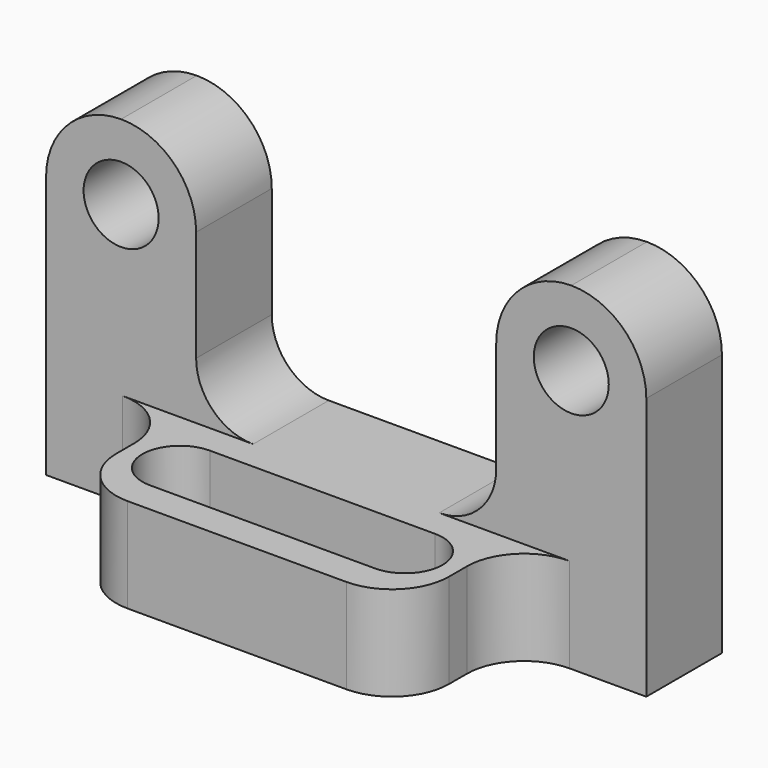
from build123d import *

# Parameters (mm, degrees)
F0_R     = 6.35
F1_DEPTH = 16.002
F2_DEPTH = 16.002
F3_R     = 9.652
F4_W     = 56.33977
F4_H     = 23.11277
F5_DEPTH = 16.002
F7_R     = 9.652
F8_DEPTH = 16.003


with BuildPart() as f1:
    # F0 (on Front) → F1 (new body)
    with BuildSketch(Plane.XZ):
        with BuildLine():
            Line((-50.8, 0), (0, 0))
            Line((0, 0), (50.8, 0))
            Line((50.8, 0), (50.8, 44.45))
            ThreePointArc((50.8, 44.45), (47.080256, 53.430256), (38.1, 57.15))
            ThreePointArc((38.1, 57.15), (29.119744, 53.430256), (25.4, 44.45))
            Line((25.4, 44.45), (25.4, 16.002))
            Line((25.4, 16.002), (0, 16.002))
            Line((0, 16.002), (-25.4, 16.002))
            Line((-25.4, 16.002), (-25.4, 44.45))
            ThreePointArc((-25.4, 44.45), (-29.119744, 53.430256), (-38.1, 57.15))
            ThreePointArc((-38.1, 57.15), (-47.080256, 53.430256), (-50.8, 44.45))
            Line((-50.8, 44.45), (-50.8, 0))
        make_face()
        with Locations((-38.1, 44.45)):
            Circle(F0_R, mode=Mode.SUBTRACT)
        with Locations((38.1, 44.45)):
            Circle(F0_R, mode=Mode.SUBTRACT)
    extrude(amount=F1_DEPTH)

    # F0 (on Front) → F2 (join)
    with BuildSketch(Plane.XZ):
        with BuildLine():
            Line((-50.8, 0), (0, 0))
            Line((0, 0), (50.8, 0))
            Line((50.8, 0), (50.8, 44.45))
            ThreePointArc((50.8, 44.45), (47.080256, 53.430256), (38.1, 57.15))
            ThreePointArc((38.1, 57.15), (29.119744, 53.430256), (25.4, 44.45))
            Line((25.4, 44.45), (25.4, 16.002))
            Line((25.4, 16.002), (0, 16.002))
            Line((0, 16.002), (-25.4, 16.002))
            Line((-25.4, 16.002), (-25.4, 44.45))
            ThreePointArc((-25.4, 44.45), (-29.119744, 53.430256), (-38.1, 57.15))
            ThreePointArc((-38.1, 57.15), (-47.080256, 53.430256), (-50.8, 44.45))
            Line((-50.8, 44.45), (-50.8, 0))
        make_face()
        with Locations((-38.1, 44.45)):
            Circle(F0_R, mode=Mode.SUBTRACT)
        with Locations((38.1, 44.45)):
            Circle(F0_R, mode=Mode.SUBTRACT)
    extrude(amount=F2_DEPTH)

    # F3
    f3_edges = [f1.edges().sort_by_distance(p)[0] for p in [
        (-25.4, -8.001, 16.002),
        (25.4, -8.001, 16.002),
    ]]
    fillet(f3_edges, radius=F3_R)

    # F4 (on Top) → F5 (join)
    with BuildSketch(Plane.XY):
        with Locations((0, -27.554179)):
            Rectangle(F4_W, F4_H)
    extrude(amount=F5_DEPTH)

    # F7
    f7_edges = [f1.edges().sort_by_distance(p)[0] for p in [
        (28.169885, -39.110564, 8.001),
        (-28.169885, -39.110564, 8.001),
        (28.169885, -16.002, 8.001),
        (-28.169885, -16.002, 8.001),
    ]]
    fillet(f7_edges, radius=F7_R)

    # F6 (on face) → F8 (cut, through all)
    with BuildSketch(Plane.XY.offset(16.002)):
        with BuildLine():
            Line((19.05, -21.026887), (0, -21.026887))
            Line((0, -21.026887), (-19.05, -21.026887))
            ThreePointArc((-19.05, -21.026887), (-25.4, -27.376887), (-19.05, -33.726887))
            Line((-19.05, -33.726887), (0, -33.726887))
            Line((0, -33.726887), (19.05, -33.726887))
            ThreePointArc((19.05, -33.726887), (25.4, -27.376887), (19.05, -21.026887))
        make_face()
    extrude(amount=-F8_DEPTH, mode=Mode.SUBTRACT)


solid = f1.part
